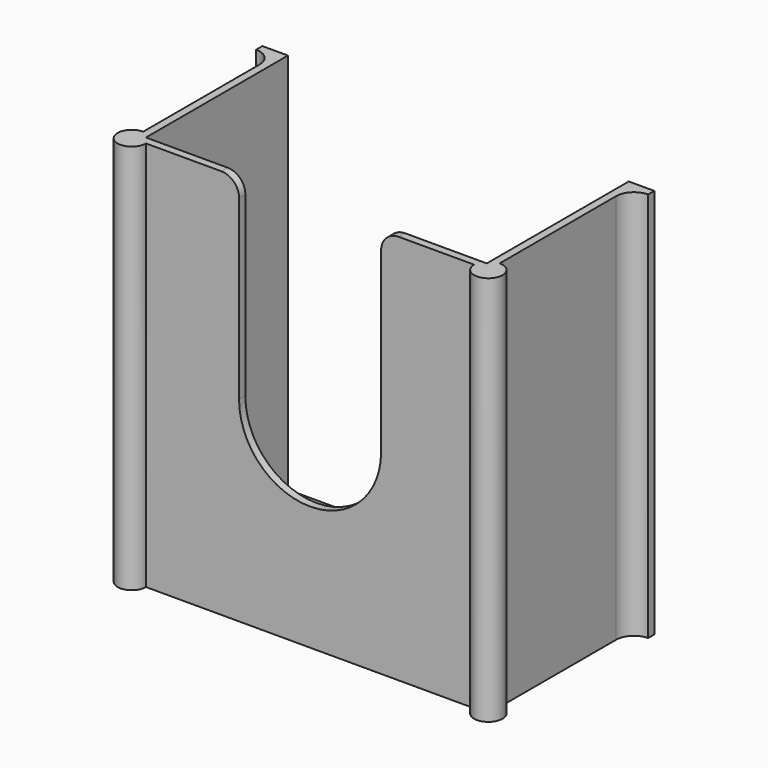
from build123d import *

# Parameters (mm, degrees)
F1_DEPTH = 139.7
F3_DEPTH = 66.301
F4_W     = 126.004966
F4_H     = 65.315597
F5_DEPTH = 3


with BuildPart() as f1:
    # F0 (on Top) → F1 (new body)
    with BuildSketch(Plane.XY):
        with BuildLine():
            Line((60.96, 0), (-60.96, 0))
            Line((-60.96, 0), (-60.96, 63.5))
            Line((-60.96, 63.5), (-70.11, 63.5))
            Line((-70.11, 63.5), (-70.11, 60.7))
            ThreePointArc((-70.11, 60.7), (-65.619872, 58.840128), (-63.76, 54.35))
            Line((-63.76, 54.35), (-63.76, 2.28))
            Line((-63.76, 2.28), (-63.76, -2.8))
            Line((-63.76, -2.8), (-58.68, -2.8))
            Line((-58.68, -2.8), (58.68, -2.8))
            Line((58.68, -2.8), (63.76, -2.8))
            Line((63.76, -2.8), (63.76, 2.28))
            Line((63.76, 2.28), (63.76, 54.35))
            ThreePointArc((63.76, 54.35), (65.619872, 58.840128), (70.11, 60.7))
            Line((70.11, 60.7), (70.11, 63.5))
            Line((70.11, 63.5), (60.96, 63.5))
            Line((60.96, 63.5), (60.96, 0))
        make_face()
        with BuildLine():
            Line((-63.76, -2.8), (-63.76, 2.28))
            ThreePointArc((-63.76, 2.28), (-67.352102, -6.392102), (-58.68, -2.8))
            Line((-58.68, -2.8), (-63.76, -2.8))
        make_face()
        with BuildLine():
            ThreePointArc((58.68, -2.8), (67.352102, -6.392102), (63.76, 2.28))
            Line((63.76, 2.28), (63.76, -2.8))
            Line((63.76, -2.8), (58.68, -2.8))
        make_face()
    extrude(amount=F1_DEPTH)

    # F2 (on face) → F3 (cut, through all)
    with BuildSketch(Plane.XZ.offset(2.8)):
        with BuildLine():
            Line((-25.4, 133.35), (-25.4, 69.85))
            ThreePointArc((-25.4, 69.85), (0, 44.45), (25.4, 69.85))
            Line((25.4, 69.85), (25.4, 133.35))
            ThreePointArc((25.4, 133.35), (27.259872, 137.840128), (31.75, 139.7))
            Line((31.75, 139.7), (41.905578, 139.7))
            Line((41.905578, 139.7), (41.905578, 151.021525))
            Line((41.905578, 151.021525), (-38.783666, 151.021525))
            Line((-38.783666, 151.021525), (-38.783666, 139.7))
            Line((-38.783666, 139.7), (-31.75, 139.7))
            ThreePointArc((-31.75, 139.7), (-27.259872, 137.840128), (-25.4, 133.35))
        make_face()
    extrude(amount=-F3_DEPTH, mode=Mode.SUBTRACT)

    # F4 (on Top) → F5 (join)
    with BuildSketch(Plane.XY):
        with Locations((-0.293547, 30.842202)):
            Rectangle(F4_W, F4_H)
        with BuildLine():
            ThreePointArc((-44.45, 44.45), (-42.590128, 48.940128), (-38.1, 50.8))
            Line((-38.1, 50.8), (38.1, 50.8))
            ThreePointArc((38.1, 50.8), (42.590128, 48.940128), (44.45, 44.45))
            Line((44.45, 44.45), (44.45, 19.05))
            ThreePointArc((44.45, 19.05), (42.590128, 14.559872), (38.1, 12.7))
            Line((38.1, 12.7), (-38.1, 12.7))
            ThreePointArc((-38.1, 12.7), (-42.590128, 14.559872), (-44.45, 19.05))
            Line((-44.45, 19.05), (-44.45, 44.45))
        make_face(mode=Mode.SUBTRACT)
    extrude(amount=F5_DEPTH)


solid = f1.part
